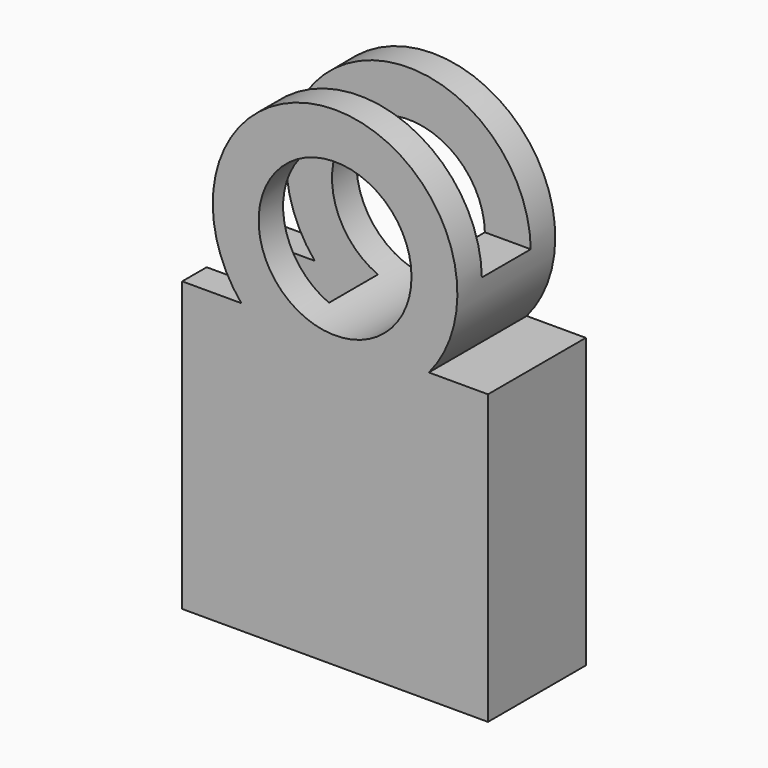
from build123d import *

# Parameters (mm, degrees)
F0_R     = 12.5
F1_DEPTH = 10
F2_W     = 10
F2_H     = 90.439778
F3_DEPTH = 20
F5_DEPTH = 30.001


with BuildPart() as f1:
    # F0 (on Front) → F1 (new body, symmetric)
    with BuildSketch(Plane.XZ):
        with BuildLine():
            Line((0, 47.159518), (0, 0))
            Line((0, 0), (50, 0))
            Line((50, 0), (50, 47.159518))
            Line((50, 47.159518), (40.333689, 47.159518))
            ThreePointArc((40.333689, 47.159518), (25, 80), (9.666311, 47.159518))
            Line((9.666311, 47.159518), (0, 47.159518))
        make_face()
        with Locations((25, 60)):
            Circle(F0_R, mode=Mode.SUBTRACT)
    extrude(amount=F1_DEPTH, both=True)

    # F2 (on face) → F3 (cut, symmetric)
    with BuildSketch(Plane(origin=(0, 0, 0), x_dir=(0, -1, 0), z_dir=(-1, 0, 0))):
        with Locations((0, 45.219889)):
            Rectangle(F2_W, F2_H)
    extrude(amount=F3_DEPTH, both=True, mode=Mode.SUBTRACT)

    # F4 (on face) → F5 (cut, through all)
    with BuildSketch(Plane(origin=(20, 0, 0), x_dir=(0, -1, 0), z_dir=(-1, 0, 0))):
        Polygon((5, 84.635349), (-5, 81.45997), (-5, 71.508407), (-5, 60.315875), (5, 60.315875), (5, 71.456439), align=None)
    extrude(amount=-F5_DEPTH, mode=Mode.SUBTRACT)


solid = f1.part
